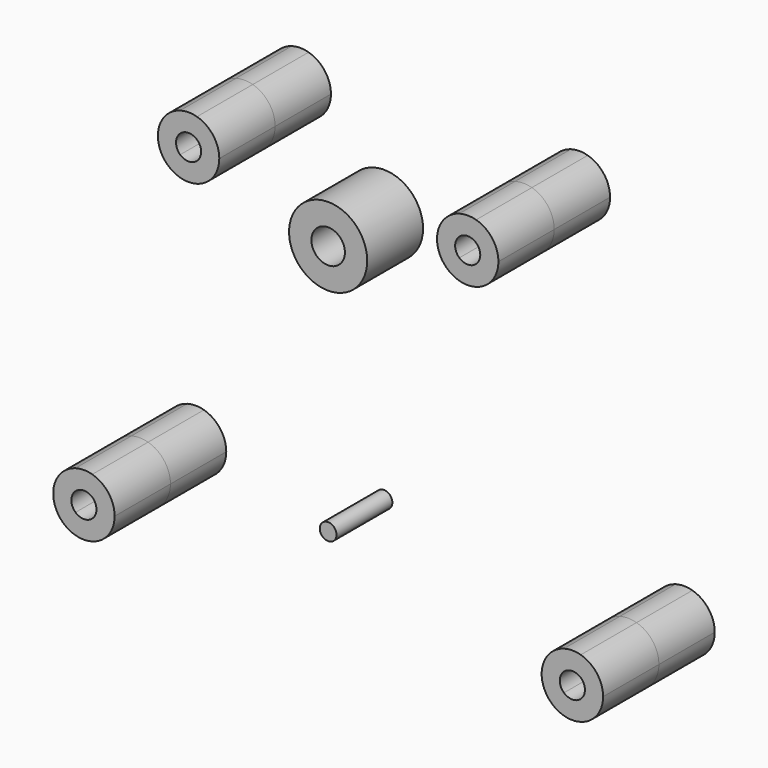
from build123d import *

# Parameters (mm, degrees)
F1_DEPTH = 5
F2_DEPTH = 5
F0_R     = 2.8
F0_R_2   = 1.2
F0_R_3   = 0.6


with BuildPart() as f1:
    # F0 (on Front) → F1 (new body)
    with BuildSketch(Plane.XZ):
        with BuildLine():
            ThreePointArc((26.9, 24.3291796068), (26.6, 25), (26.9, 25.6708203932))
            Line((26.9, 25.6708203932), (26.9, 27.1166010489))
            ThreePointArc((26.9, 27.1166010489), (25.3, 25), (26.9, 22.8833989511))
            Line((26.9, 22.8833989511), (26.9, 24.3291796068))
        make_face()
        with BuildLine():
            ThreePointArc((26.9, 25.6708203932), (27.5, 25.9), (28.1, 25.6708203932))
            Line((28.1, 25.6708203932), (28.1, 27.1166010489))
            ThreePointArc((28.1, 27.1166010489), (27.5, 27.2), (26.9, 27.1166010489))
            Line((26.9, 27.1166010489), (26.9, 25.6708203932))
        make_face()
        with BuildLine():
            ThreePointArc((28.1, 25.6708203932), (28.3215838363, 25.3674234614), (28.4, 25))
            ThreePointArc((28.4, 25), (28.3215838363, 24.6325765386), (28.1, 24.3291796068))
            Line((28.1, 24.3291796068), (28.1, 22.8833989511))
            ThreePointArc((28.1, 22.8833989511), (29.2549928775, 23.6733500839), (29.7, 25))
            ThreePointArc((29.7, 25), (29.2549928775, 26.3266499161), (28.1, 27.1166010489))
            Line((28.1, 27.1166010489), (28.1, 25.6708203932))
        make_face()
        with BuildLine():
            Line((28.1, 22.8833989511), (28.1, 24.3291796068))
            ThreePointArc((28.1, 24.3291796068), (27.5, 24.1), (26.9, 24.3291796068))
            Line((26.9, 24.3291796068), (26.9, 22.8833989511))
            ThreePointArc((26.9, 22.8833989511), (27.5, 22.8), (28.1, 22.8833989511))
        make_face()
    extrude(amount=-F1_DEPTH)


with BuildPart() as f1b:
    # F0 (on Front) → F1, piece 2 (new body)
    with BuildSketch(Plane.XZ):
        with BuildLine():
            ThreePointArc((8.1, 25.6708203932), (8.3215838363, 25.3674234614), (8.4, 25))
            ThreePointArc((8.4, 25), (8.3215838363, 24.6325765386), (8.1, 24.3291796068))
            Line((8.1, 24.3291796068), (8.1, 22.8833989511))
            ThreePointArc((8.1, 22.8833989511), (9.2549928775, 23.6733500839), (9.7, 25))
            ThreePointArc((9.7, 25), (9.2549928775, 26.3266499161), (8.1, 27.1166010489))
            Line((8.1, 27.1166010489), (8.1, 25.6708203932))
        make_face()
        with BuildLine():
            ThreePointArc((6.9, 25.6708203932), (7.5, 25.9), (8.1, 25.6708203932))
            Line((8.1, 25.6708203932), (8.1, 27.1166010489))
            ThreePointArc((8.1, 27.1166010489), (7.5, 27.2), (6.9, 27.1166010489))
            Line((6.9, 27.1166010489), (6.9, 25.6708203932))
        make_face()
        with BuildLine():
            ThreePointArc((6.9, 24.3291796068), (6.6, 25), (6.9, 25.6708203932))
            Line((6.9, 25.6708203932), (6.9, 27.1166010489))
            ThreePointArc((6.9, 27.1166010489), (5.3, 25), (6.9, 22.8833989511))
            Line((6.9, 22.8833989511), (6.9, 24.3291796068))
        make_face()
        with BuildLine():
            Line((8.1, 22.8833989511), (8.1, 24.3291796068))
            ThreePointArc((8.1, 24.3291796068), (7.5, 24.1), (6.9, 24.3291796068))
            Line((6.9, 24.3291796068), (6.9, 22.8833989511))
            ThreePointArc((6.9, 22.8833989511), (7.5, 22.8), (8.1, 22.8833989511))
        make_face()
    extrude(amount=-F1_DEPTH)


with BuildPart() as f1c:
    # F0 (on Front) → F1, piece 3 (new body)
    with BuildSketch(Plane.XZ):
        with BuildLine():
            ThreePointArc((34.4, -0.6708203932), (34.1, 0), (34.4, 0.6708203932))
            Line((34.4, 0.6708203932), (34.4, 2.1166010489))
            ThreePointArc((34.4, 2.1166010489), (32.8, 0), (34.4, -2.1166010489))
            Line((34.4, -2.1166010489), (34.4, -0.6708203932))
        make_face()
        with BuildLine():
            Line((35.6, -2.1166010489), (35.6, -0.6708203932))
            ThreePointArc((35.6, -0.6708203932), (35, -0.9), (34.4, -0.6708203932))
            Line((34.4, -0.6708203932), (34.4, -2.1166010489))
            ThreePointArc((34.4, -2.1166010489), (35, -2.2), (35.6, -2.1166010489))
        make_face()
        with BuildLine():
            ThreePointArc((35.6, 0.6708203932), (35.8215838363, 0.3674234614), (35.9, 0))
            ThreePointArc((35.9, 0), (35.8215838363, -0.3674234614), (35.6, -0.6708203932))
            Line((35.6, -0.6708203932), (35.6, -2.1166010489))
            ThreePointArc((35.6, -2.1166010489), (36.7549928775, -1.3266499161), (37.2, 0))
            ThreePointArc((37.2, 0), (36.7549928775, 1.3266499161), (35.6, 2.1166010489))
            Line((35.6, 2.1166010489), (35.6, 0.6708203932))
        make_face()
        with BuildLine():
            ThreePointArc((34.4, 0.6708203932), (35, 0.9), (35.6, 0.6708203932))
            Line((35.6, 0.6708203932), (35.6, 2.1166010489))
            ThreePointArc((35.6, 2.1166010489), (35, 2.2), (34.4, 2.1166010489))
            Line((34.4, 2.1166010489), (34.4, 0.6708203932))
        make_face()
    extrude(amount=-F1_DEPTH)


with BuildPart() as f1d:
    # F0 (on Front) → F1, piece 4 (new body)
    with BuildSketch(Plane.XZ):
        with BuildLine():
            ThreePointArc((0.6, 0.6708203932), (0.8215838363, 0.3674234614), (0.9, 0))
            ThreePointArc((0.9, 0), (0.8215838363, -0.3674234614), (0.6, -0.6708203932))
            Line((0.6, -0.6708203932), (0.6, -2.1166010489))
            ThreePointArc((0.6, -2.1166010489), (1.7549928775, -1.3266499161), (2.2, 0))
            ThreePointArc((2.2, 0), (1.7549928775, 1.3266499161), (0.6, 2.1166010489))
            Line((0.6, 2.1166010489), (0.6, 0.6708203932))
        make_face()
        with BuildLine():
            ThreePointArc((-0.6, 0.6708203932), (0, 0.9), (0.6, 0.6708203932))
            Line((0.6, 0.6708203932), (0.6, 2.1166010489))
            ThreePointArc((0.6, 2.1166010489), (0, 2.2), (-0.6, 2.1166010489))
            Line((-0.6, 2.1166010489), (-0.6, 0.6708203932))
        make_face()
        with BuildLine():
            ThreePointArc((-0.6, -0.6708203932), (-0.9, 0), (-0.6, 0.6708203932))
            Line((-0.6, 0.6708203932), (-0.6, 2.1166010489))
            ThreePointArc((-0.6, 2.1166010489), (-2.2, 0), (-0.6, -2.1166010489))
            Line((-0.6, -2.1166010489), (-0.6, -0.6708203932))
        make_face()
        with BuildLine():
            Line((0.6, -2.1166010489), (0.6, -0.6708203932))
            ThreePointArc((0.6, -0.6708203932), (0, -0.9), (-0.6, -0.6708203932))
            Line((-0.6, -0.6708203932), (-0.6, -2.1166010489))
            ThreePointArc((-0.6, -2.1166010489), (0, -2.2), (0.6, -2.1166010489))
        make_face()
    extrude(amount=-F1_DEPTH)


with BuildPart() as f2:
    # F0 (on Front) → F2 (new body)
    with BuildSketch(Plane.XZ):
        with BuildLine():
            ThreePointArc((-0.6, -0.6708203932), (-0.9, 0), (-0.6, 0.6708203932))
            Line((-0.6, 0.6708203932), (-0.6, 2.1166010489))
            ThreePointArc((-0.6, 2.1166010489), (-2.2, 0), (-0.6, -2.1166010489))
            Line((-0.6, -2.1166010489), (-0.6, -0.6708203932))
        make_face()
        with BuildLine():
            ThreePointArc((0.6, 0.6708203932), (0.8215838363, 0.3674234614), (0.9, 0))
            ThreePointArc((0.9, 0), (0.8215838363, -0.3674234614), (0.6, -0.6708203932))
            Line((0.6, -0.6708203932), (0.6, -2.1166010489))
            ThreePointArc((0.6, -2.1166010489), (1.7549928775, -1.3266499161), (2.2, 0))
            ThreePointArc((2.2, 0), (1.7549928775, 1.3266499161), (0.6, 2.1166010489))
            Line((0.6, 2.1166010489), (0.6, 0.6708203932))
        make_face()
        with BuildLine():
            ThreePointArc((-0.6, 0.6708203932), (0, 0.9), (0.6, 0.6708203932))
            Line((0.6, 0.6708203932), (0.6, 2.1166010489))
            ThreePointArc((0.6, 2.1166010489), (0, 2.2), (-0.6, 2.1166010489))
            Line((-0.6, 2.1166010489), (-0.6, 0.6708203932))
        make_face()
        with BuildLine():
            Line((0.6, -2.1166010489), (0.6, -0.6708203932))
            ThreePointArc((0.6, -0.6708203932), (0, -0.9), (-0.6, -0.6708203932))
            Line((-0.6, -0.6708203932), (-0.6, -2.1166010489))
            ThreePointArc((-0.6, -2.1166010489), (0, -2.2), (0.6, -2.1166010489))
        make_face()
    extrude(amount=F2_DEPTH)


with BuildPart() as f2b:
    # F0 (on Front) → F2, piece 2 (new body)
    with BuildSketch(Plane.XZ):
        with BuildLine():
            ThreePointArc((35.6, 0.6708203932), (35.8215838363, 0.3674234614), (35.9, 0))
            ThreePointArc((35.9, 0), (35.8215838363, -0.3674234614), (35.6, -0.6708203932))
            Line((35.6, -0.6708203932), (35.6, -2.1166010489))
            ThreePointArc((35.6, -2.1166010489), (36.7549928775, -1.3266499161), (37.2, 0))
            ThreePointArc((37.2, 0), (36.7549928775, 1.3266499161), (35.6, 2.1166010489))
            Line((35.6, 2.1166010489), (35.6, 0.6708203932))
        make_face()
        with BuildLine():
            ThreePointArc((34.4, 0.6708203932), (35, 0.9), (35.6, 0.6708203932))
            Line((35.6, 0.6708203932), (35.6, 2.1166010489))
            ThreePointArc((35.6, 2.1166010489), (35, 2.2), (34.4, 2.1166010489))
            Line((34.4, 2.1166010489), (34.4, 0.6708203932))
        make_face()
        with BuildLine():
            ThreePointArc((34.4, -0.6708203932), (34.1, 0), (34.4, 0.6708203932))
            Line((34.4, 0.6708203932), (34.4, 2.1166010489))
            ThreePointArc((34.4, 2.1166010489), (32.8, 0), (34.4, -2.1166010489))
            Line((34.4, -2.1166010489), (34.4, -0.6708203932))
        make_face()
        with BuildLine():
            Line((35.6, -2.1166010489), (35.6, -0.6708203932))
            ThreePointArc((35.6, -0.6708203932), (35, -0.9), (34.4, -0.6708203932))
            Line((34.4, -0.6708203932), (34.4, -2.1166010489))
            ThreePointArc((34.4, -2.1166010489), (35, -2.2), (35.6, -2.1166010489))
        make_face()
    extrude(amount=F2_DEPTH)


with BuildPart() as f2c:
    # F0 (on Front) → F2, piece 3 (new body)
    with BuildSketch(Plane.XZ):
        with BuildLine():
            ThreePointArc((26.9, 24.3291796068), (26.6, 25), (26.9, 25.6708203932))
            Line((26.9, 25.6708203932), (26.9, 27.1166010489))
            ThreePointArc((26.9, 27.1166010489), (25.3, 25), (26.9, 22.8833989511))
            Line((26.9, 22.8833989511), (26.9, 24.3291796068))
        make_face()
        with BuildLine():
            ThreePointArc((26.9, 25.6708203932), (27.5, 25.9), (28.1, 25.6708203932))
            Line((28.1, 25.6708203932), (28.1, 27.1166010489))
            ThreePointArc((28.1, 27.1166010489), (27.5, 27.2), (26.9, 27.1166010489))
            Line((26.9, 27.1166010489), (26.9, 25.6708203932))
        make_face()
        with BuildLine():
            ThreePointArc((28.1, 25.6708203932), (28.3215838363, 25.3674234614), (28.4, 25))
            ThreePointArc((28.4, 25), (28.3215838363, 24.6325765386), (28.1, 24.3291796068))
            Line((28.1, 24.3291796068), (28.1, 22.8833989511))
            ThreePointArc((28.1, 22.8833989511), (29.2549928775, 23.6733500839), (29.7, 25))
            ThreePointArc((29.7, 25), (29.2549928775, 26.3266499161), (28.1, 27.1166010489))
            Line((28.1, 27.1166010489), (28.1, 25.6708203932))
        make_face()
        with BuildLine():
            Line((28.1, 22.8833989511), (28.1, 24.3291796068))
            ThreePointArc((28.1, 24.3291796068), (27.5, 24.1), (26.9, 24.3291796068))
            Line((26.9, 24.3291796068), (26.9, 22.8833989511))
            ThreePointArc((26.9, 22.8833989511), (27.5, 22.8), (28.1, 22.8833989511))
        make_face()
    extrude(amount=F2_DEPTH)


with BuildPart() as f2d:
    # F0 (on Front) → F2, piece 4 (new body)
    with BuildSketch(Plane.XZ):
        with Locations((17.5, 22)):
            Circle(F0_R)
        with Locations((17.5, 22)):
            Circle(F0_R_2, mode=Mode.SUBTRACT)
    extrude(amount=F2_DEPTH)


with BuildPart() as f2e:
    # F0 (on Front) → F2, piece 5 (new body)
    with BuildSketch(Plane.XZ):
        with BuildLine():
            ThreePointArc((8.1, 25.6708203932), (8.3215838363, 25.3674234614), (8.4, 25))
            ThreePointArc((8.4, 25), (8.3215838363, 24.6325765386), (8.1, 24.3291796068))
            Line((8.1, 24.3291796068), (8.1, 22.8833989511))
            ThreePointArc((8.1, 22.8833989511), (9.2549928775, 23.6733500839), (9.7, 25))
            ThreePointArc((9.7, 25), (9.2549928775, 26.3266499161), (8.1, 27.1166010489))
            Line((8.1, 27.1166010489), (8.1, 25.6708203932))
        make_face()
        with BuildLine():
            ThreePointArc((6.9, 25.6708203932), (7.5, 25.9), (8.1, 25.6708203932))
            Line((8.1, 25.6708203932), (8.1, 27.1166010489))
            ThreePointArc((8.1, 27.1166010489), (7.5, 27.2), (6.9, 27.1166010489))
            Line((6.9, 27.1166010489), (6.9, 25.6708203932))
        make_face()
        with BuildLine():
            Line((8.1, 22.8833989511), (8.1, 24.3291796068))
            ThreePointArc((8.1, 24.3291796068), (7.5, 24.1), (6.9, 24.3291796068))
            Line((6.9, 24.3291796068), (6.9, 22.8833989511))
            ThreePointArc((6.9, 22.8833989511), (7.5, 22.8), (8.1, 22.8833989511))
        make_face()
        with BuildLine():
            ThreePointArc((6.9, 24.3291796068), (6.6, 25), (6.9, 25.6708203932))
            Line((6.9, 25.6708203932), (6.9, 27.1166010489))
            ThreePointArc((6.9, 27.1166010489), (5.3, 25), (6.9, 22.8833989511))
            Line((6.9, 22.8833989511), (6.9, 24.3291796068))
        make_face()
    extrude(amount=F2_DEPTH)


with BuildPart() as f2f:
    # F0 (on Front) → F2, piece 6 (new body)
    with BuildSketch(Plane.XZ):
        with Locations((17.5, 4)):
            Circle(F0_R_3)
    extrude(amount=F2_DEPTH)


solid = Compound([f1.part, f1b.part, f1c.part, f1d.part, f2.part, f2b.part, f2c.part, f2d.part, f2e.part, f2f.part])
